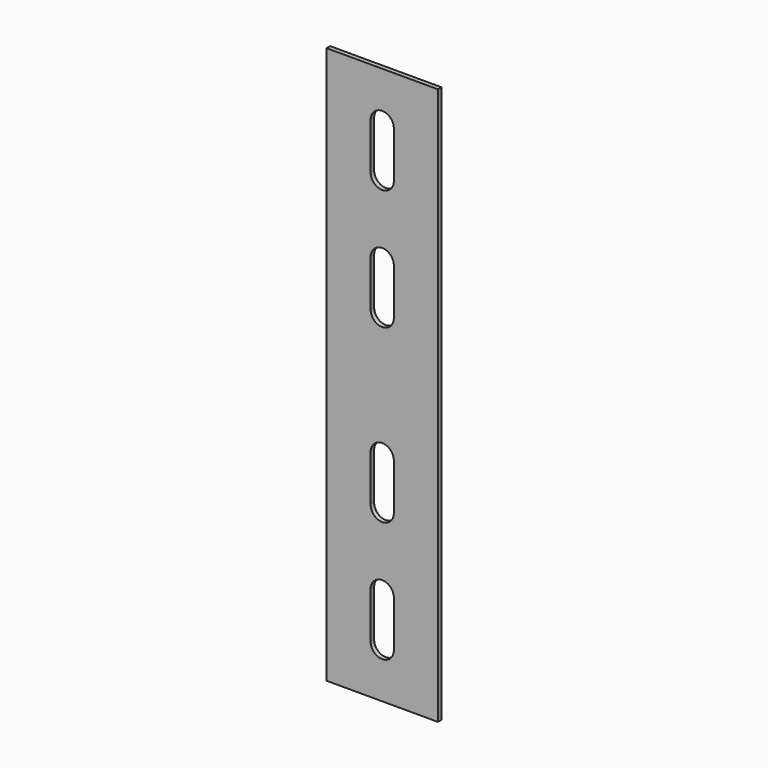
from build123d import *

# Parameters (mm, degrees)
F0_W     = 76.2
F0_H     = 3.048
F1_DEPTH = 381
F4_DEPTH = 25.4


with BuildPart() as f1:
    # F0 (on Top) → F1 (new body)
    with BuildSketch(Plane.XY):
        with Locations((0, -36.576)):
            Rectangle(F0_W, F0_H)
    extrude(amount=F1_DEPTH)

    # F3 (on offset) → F4 (cut)
    with BuildSketch(Plane.XZ.offset(50.8)):
        with BuildLine():
            ThreePointArc((7.9375, 147.6375), (0, 155.575), (-7.9375, 147.6375))
            Line((-7.9375, 147.6375), (-7.9375, 115.8875))
            ThreePointArc((-7.9375, 115.8875), (0, 107.95), (7.9375, 115.8875))
            Line((7.9375, 115.8875), (7.9375, 147.6375))
        make_face()
        with BuildLine():
            ThreePointArc((7.9375, 65.0875), (0, 73.025), (-7.9375, 65.0875))
            Line((-7.9375, 65.0875), (-7.9375, 33.3375))
            ThreePointArc((-7.9375, 33.3375), (0, 25.4), (7.9375, 33.3375))
            Line((7.9375, 33.3375), (7.9375, 65.0875))
        make_face()
        with BuildLine():
            ThreePointArc((7.9375, 265.1125), (0, 273.05), (-7.9375, 265.1125))
            Line((-7.9375, 265.1125), (-7.9375, 233.3625))
            ThreePointArc((-7.9375, 233.3625), (0, 225.425), (7.9375, 233.3625))
            Line((7.9375, 233.3625), (7.9375, 265.1125))
        make_face()
        with BuildLine():
            ThreePointArc((7.9375, 347.6625), (0, 355.6), (-7.9375, 347.6625))
            Line((-7.9375, 347.6625), (-7.9375, 315.9125))
            ThreePointArc((-7.9375, 315.9125), (0, 307.975), (7.9375, 315.9125))
            Line((7.9375, 315.9125), (7.9375, 347.6625))
        make_face()
    extrude(amount=-F4_DEPTH, mode=Mode.SUBTRACT)


solid = f1.part
